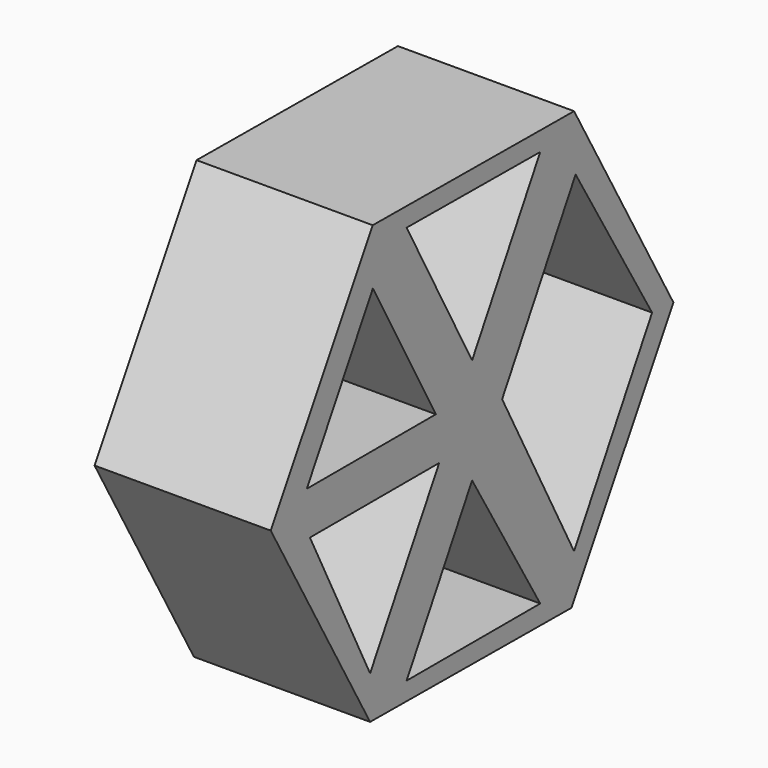
from build123d import *

# Parameters (mm, degrees)
F1_DEPTH = 25.146
F3_DEPTH = 25.147


with BuildPart() as f1:
    # F0 (on Right) → F1 (new body)
    with BuildSketch(Plane.YZ):
        Polygon((-18.196719, -30.976094), (17.727725, -31.246868), (35.924444, -0.270774), (18.196719, 30.976094), (-17.727725, 31.246868), (-35.924444, 0.270774), align=None)
    extrude(amount=F1_DEPTH)

    # F2 (on face) → F3 (cut, through all)
    with BuildSketch(Plane.YZ.offset(25.146)):
        Polygon((12.158216, 28.30131), (-11.682742, 28.481007), (0, 7.056957), align=None)
        Polygon((18.470482, 22.909693), (5.359186, 0), (18.196719, -24.320445), (32.115393, 0), align=None)
        Polygon((12.158216, -28.440368), (0, -8.026823), (-11.682742, -28.440368), align=None)
        Polygon((-5.873994, -3.44487), (-28.931567, -3.44487), (-18.196719, -24.876591), align=None)
        Polygon((-6.465211, 2.910744), (-17.69839, 23.307832), (-29.490458, 2.910744), align=None)
    extrude(amount=-F3_DEPTH, mode=Mode.SUBTRACT)


solid = f1.part
